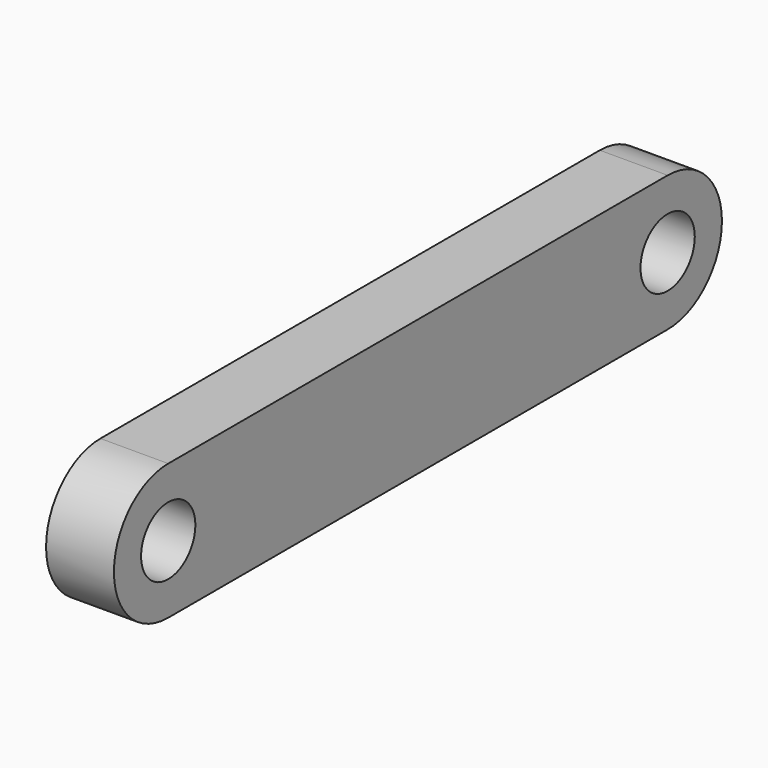
from build123d import *

# Parameters (mm, degrees)
F0_R     = 3.175
F1_DEPTH = 6.35


with BuildPart() as f1:
    # F0 (on Right) → F1 (new body)
    with BuildSketch(Plane.YZ):
        with BuildLine():
            ThreePointArc((0, -6.35), (6.35, 0), (0, 6.35))
            Line((0, 6.35), (-58.42, 6.35))
            ThreePointArc((-58.42, 6.35), (-64.77, 0), (-58.42, -6.35))
            Line((-58.42, -6.35), (0, -6.35))
        make_face()
        with Locations((-58.42, 0)):
            Circle(F0_R, mode=Mode.SUBTRACT)
        Circle(F0_R, mode=Mode.SUBTRACT)
    extrude(amount=F1_DEPTH)


solid = f1.part
